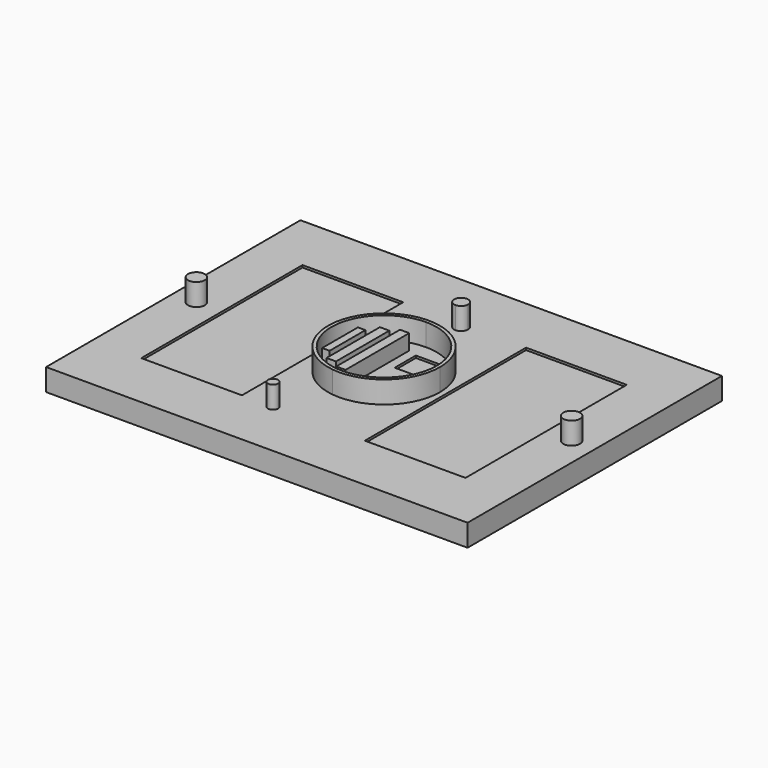
from build123d import *

# Parameters (mm, degrees)
F0_W     = 115.9510612488
F0_H     = 232.1095168591
F1_DEPTH = 25.4
F2_DEPTH = 50.8
F0_W_2   = 8.6233839393
F0_H_2   = 51.5415742993
F0_W_3   = 10.8864195645
F0_H_3   = 76.7579004169
F0_W_4   = 10.6456745416
F0_H_4   = 91.7214006186
F0_R     = 21.2419727644
F0_W_5   = 34.5992818475
F0_H_5   = 30.4277390242
F3_DEPTH = 25.4
F4_DEPTH = 43.18
F5_DEPTH = 22.86
F6_R     = 9.647506056
F6_R_2   = 5.7913302068
F7_DEPTH = 25.4


with BuildPart() as f1:
    # F0 (on Top) → F1 (new body)
    with BuildSketch(Plane.XY):
        Polygon((-242.6905930042, -183.078199625), (0, -183.078199625), (242.6905930042, -183.078199625), (242.6905930042, 183.078199625), (-242.6905930042, 183.078199625), align=None)
        with Locations((-128.7101954222, 0)):
            Rectangle(F0_W, F0_H, mode=Mode.SUBTRACT)
        with BuildLine():
            ThreePointArc((-8.3529502331, -63.9360985563), (-42.5382359375, 48.4571455981), (64.479426767, 0))
            ThreePointArc((64.479426767, 0), (42.5382359375, -48.4571455981), (-8.3529502331, -63.9360985563))
        make_face(mode=Mode.SUBTRACT)
        with Locations((128.7101954222, 0)):
            Rectangle(F0_W, F0_H, mode=Mode.SUBTRACT)
    extrude(amount=F1_DEPTH)

    # F0 (on Top) → F2 (join)
    with BuildSketch(Plane.XY):
        with BuildLine():
            ThreePointArc((-8.3529502331, -63.9360985563), (42.5382359375, -48.4571455981), (64.479426767, 0))
            ThreePointArc((64.479426767, 0), (-42.5382359375, 48.4571455981), (-8.3529502331, -63.9360985563))
        make_face()
        with BuildLine():
            ThreePointArc((0, 60.5718467831), (42.8307636094, 42.8307636094), (60.5718467831, 0))
            ThreePointArc((60.5718467831, 0), (42.8307636094, -42.8307636094), (0, -60.5718467831))
            ThreePointArc((0, -60.5718467831), (-60.5718467831, 0), (0, 60.5718467831))
        make_face(mode=Mode.SUBTRACT)
    extrude(amount=F2_DEPTH)

    # F0 (on Top) → F3 (join)
    with BuildSketch(Plane.XY):
        with BuildLine():
            Line((0, -60.5718467831), (0, 60.5718467831))
            ThreePointArc((0, 60.5718467831), (-60.5718467831, 0), (0, -60.5718467831))
        make_face()
        with Locations((-46.3319979608, 0)):
            Rectangle(F0_W_2, F0_H_2, mode=Mode.SUBTRACT)
        with Locations((-30.0273634493, 0)):
            Rectangle(F0_W_3, F0_H_3, mode=Mode.SUBTRACT)
        with Locations((-12.9544232041, 0)):
            Rectangle(F0_W_4, F0_H_4, mode=Mode.SUBTRACT)
        with BuildLine():
            ThreePointArc((0, -60.5718467831), (42.8307636094, -42.8307636094), (60.5718467831, 0))
            ThreePointArc((60.5718467831, 0), (42.8307636094, 42.8307636094), (0, 60.5718467831))
            Line((0, 60.5718467831), (0, -60.5718467831))
        make_face()
        with Locations((25.1728594303, -21.464029327)):
            Circle(F0_R, mode=Mode.SUBTRACT)
        with Locations((20.2057100832, 26.9539654255)):
            Rectangle(F0_W_5, F0_H_5, mode=Mode.SUBTRACT)
    extrude(amount=F3_DEPTH)

    # F0 (on Top) → F4 (join)
    with BuildSketch(Plane.XY):
        with Locations((-46.3319979608, 0)):
            Rectangle(F0_W_2, F0_H_2)
        with Locations((-30.0273634493, 0)):
            Rectangle(F0_W_3, F0_H_3)
        with Locations((-12.9544232041, 0)):
            Rectangle(F0_W_4, F0_H_4)
    extrude(amount=F4_DEPTH)

    # F0 (on Top) → F5 (join)
    with BuildSketch(Plane.XY):
        with Locations((-128.7101954222, 0)):
            Rectangle(F0_W, F0_H)
        with Locations((20.2057100832, 26.9539654255)):
            Rectangle(F0_W_5, F0_H_5)
        with Locations((25.1728594303, -21.464029327)):
            Circle(F0_R)
        with Locations((128.7101954222, 0)):
            Rectangle(F0_W, F0_H)
    extrude(amount=F5_DEPTH)

    # F6 (on face) → F7 (join)
    with BuildSketch(Plane.XY.offset(25.4)):
        with Locations((-216.0538285971, 0)):
            Circle(F6_R)
        with Locations((-35.002566874, -116.0547584295)):
            Circle(F6_R_2)
        with BuildLine():
            Line((0, 102.9595498758), (0, 119.0302903933))
            ThreePointArc((0, 119.0302903933), (-8.0353702587, 110.9949201345), (0, 102.9595498758))
        make_face()
        with BuildLine():
            ThreePointArc((0, 102.9595498758), (5.6818647993, 105.3130553353), (8.0353702587, 110.9949201345))
            ThreePointArc((8.0353702587, 110.9949201345), (5.6818647993, 116.6767849338), (0, 119.0302903933))
            Line((0, 119.0302903933), (0, 102.9595498758))
        make_face()
        with Locations((216.0538285971, 0)):
            Circle(F6_R)
    extrude(amount=F7_DEPTH)


solid = f1.part
